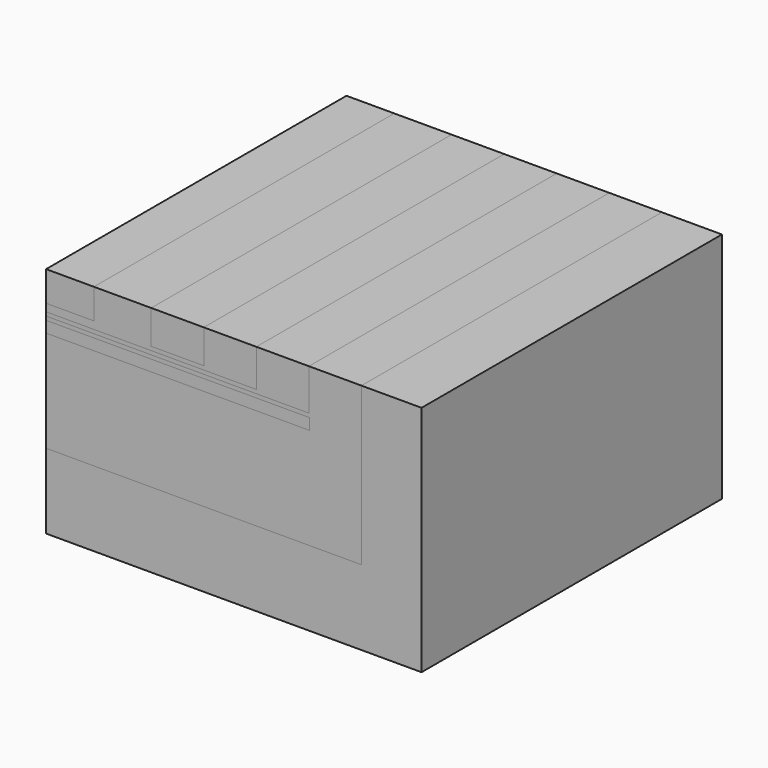
from build123d import *

# Parameters (mm, degrees)
F0_W     = 3.2343588114
F0_H     = 2.032
F1_DEPTH = 25.4
F0_W_2   = 3.556
F0_H_2   = 2.286
F0_W_3   = 17.8182184041
F0_H_3   = 0.762
F2_DEPTH = 25.4
F3_DEPTH = 25.4


with BuildPart() as f1:
    # F0 (on Front) → F1 (new body)
    with BuildSketch(Plane.XZ):
        with Locations((-76.3119991541, 73.876333005)):
            Rectangle(F0_W, F0_H)
    extrude(amount=F1_DEPTH)


with BuildPart() as f1b:
    # F0 (on Front) → F1, piece 2 (new body)
    with BuildSketch(Plane.XZ):
        with Locations((-69.0391785598, 73.749333005)):
            Rectangle(F0_W_2, F0_H_2)
    extrude(amount=F1_DEPTH)


with BuildPart() as f1c:
    # F0 (on Front) → F1, piece 3 (new body)
    with BuildSketch(Plane.XZ):
        Polygon((-63.7051785598, 72.352333005), (-77.9291785598, 72.352333005), (-77.9291785598, 72.098333005), (-60.1491785598, 72.098333005), (-60.1491785598, 74.892333005), (-63.7051785598, 74.892333005), align=None)
    extrude(amount=F1_DEPTH)


with BuildPart() as f1d:
    # F0 (on Front) → F1, piece 4 (new body)
    with BuildSketch(Plane.XZ):
        with Locations((-69.0200693578, 71.463333005)):
            Rectangle(F0_W_3, F0_H_3)
    extrude(amount=F1_DEPTH)


with BuildPart() as f1e:
    # F0 (on Front) → F1, piece 5 (new body)
    with BuildSketch(Plane.XZ):
        Polygon((-52.5291785598, 74.892333005), (-56.5931785598, 74.892333005), (-56.5931785598, 64.224333005), (-77.9291785598, 64.224333005), (-77.9291785598, 59.144333005), (-74.3731785598, 59.144333005), (-70.8171785598, 59.144333005), (-67.2611785598, 59.144333005), (-63.7051785598, 59.144333005), (-60.1491785598, 59.144333005), (-56.5931785598, 59.144333005), (-52.5291785598, 59.144333005), align=None)
    extrude(amount=F1_DEPTH)


with BuildPart() as f2:
    # F0 (on Front) → F2 (new body)
    with BuildSketch(Plane.XZ):
        Polygon((-70.8171785598, 74.892333005), (-74.6948197484, 74.892333005), (-74.6948197484, 72.860333005), (-77.9291785598, 72.860333005), (-77.9291785598, 72.606333005), (-70.8171785598, 72.606333005), align=None)
        Polygon((-70.8171785598, 72.606333005), (-77.9291785598, 72.606333005), (-77.9291785598, 72.352333005), (-63.7051785598, 72.352333005), (-63.7051785598, 74.892333005), (-67.2611785598, 74.892333005), (-67.2611785598, 72.606333005), align=None)
    extrude(amount=F2_DEPTH)


with BuildPart() as f3:
    # F0 (on Front) → F3 (new body)
    with BuildSketch(Plane.XZ):
        Polygon((-60.1491785598, 72.098333005), (-77.9291785598, 72.098333005), (-77.9291785598, 71.844333005), (-60.1109601557, 71.844333005), (-60.1109601557, 71.082333005), (-77.9291785598, 71.082333005), (-77.9291785598, 64.224333005), (-56.5931785598, 64.224333005), (-56.5931785598, 74.892333005), (-60.1491785598, 74.892333005), align=None)
    extrude(amount=F3_DEPTH)


solid = Compound([f1.part, f1b.part, f1c.part, f1d.part, f1e.part, f2.part, f3.part])
